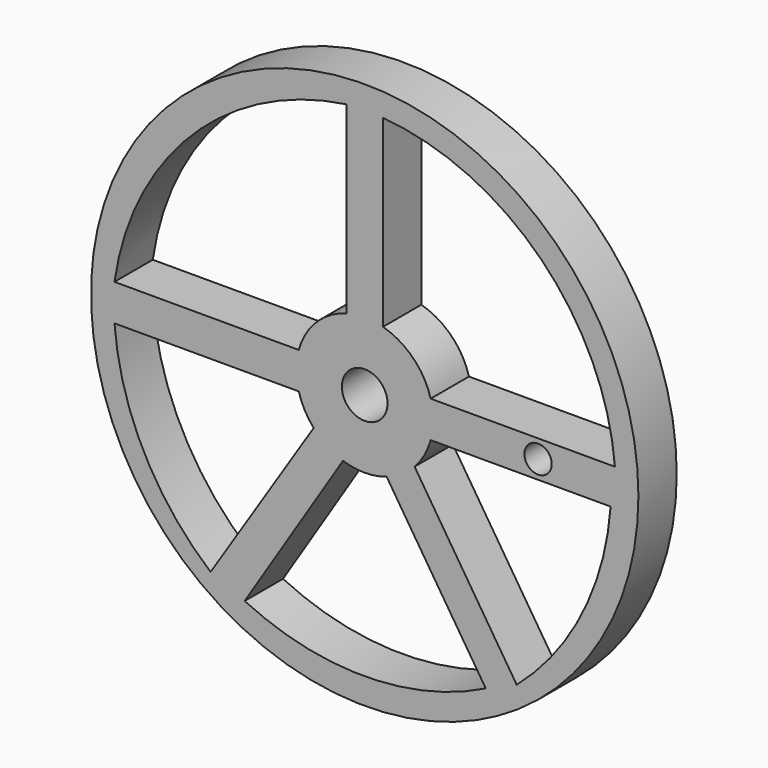
from build123d import *

# Parameters (mm, degrees)
F0_R      = 76.2
F1_DEPTH  = 13.335
F3_DEPTH  = 13.336
F4_DEPTH  = 25.4
F5_R      = 19.05
F5_R_2    = 6.35
F6_DEPTH  = 13.335
F7_R      = 6.35
F8_DEPTH  = 25.4
F9_R      = 3.81
F10_DEPTH = 25.4


with BuildPart() as f1:
    # F0 (on Front) → F1 (new body)
    with BuildSketch(Plane.XZ):
        Circle(F0_R)
    extrude(amount=F1_DEPTH)

    # F2 (on face) → F3 (cut, through all)
    with BuildSketch(Plane.XZ.offset(13.335)):
        with BuildLine():
            Line((-5.08, 5.08), (-5.08, 69.598076))
            ThreePointArc((-5.08, 69.598076), (-48.103447, 48.081106), (-69.665028, 5.08))
            Line((-69.665028, 5.08), (-5.08, 5.08))
        make_face()
        with BuildLine():
            Line((5.08, 5.08), (69.665028, 5.08))
            ThreePointArc((69.665028, 5.08), (49.192924, 49.171714), (5.08, 69.598076))
            Line((5.08, 69.598076), (5.08, 5.08))
        make_face()
        with BuildLine():
            Line((8.76398, -5.08), (42.323278, -57.252949))
            ThreePointArc((42.323278, -57.252949), (60.579086, -33.766478), (68.451492, -5.08))
            Line((68.451492, -5.08), (8.76398, -5.08))
        make_face()
        with BuildLine():
            Line((0, -8.544917), (-33.414965, -61.338916))
            ThreePointArc((-33.414965, -61.338916), (0.192188, -68.934479), (33.709339, -60.951125))
            Line((33.709339, -60.951125), (0, -8.544917))
        make_face()
        with BuildLine():
            Line((-9.307793, -5.08), (-69.665028, -5.08))
            ThreePointArc((-69.665028, -5.08), (-61.51436, -33.874713), (-42.90387, -57.310125))
            Line((-42.90387, -57.310125), (-9.307793, -5.08))
        make_face()
    extrude(amount=-F3_DEPTH, mode=Mode.SUBTRACT)

    # F2 (on face) → F4 (cut)
    with BuildSketch(Plane.XZ.offset(13.335)):
        with BuildLine():
            Line((-5.08, 5.08), (-5.08, 69.598076))
            ThreePointArc((-5.08, 69.598076), (-48.103447, 48.081106), (-69.665028, 5.08))
            Line((-69.665028, 5.08), (-5.08, 5.08))
        make_face()
        with BuildLine():
            Line((5.08, 5.08), (69.665028, 5.08))
            ThreePointArc((69.665028, 5.08), (49.192924, 49.171714), (5.08, 69.598076))
            Line((5.08, 69.598076), (5.08, 5.08))
        make_face()
        with BuildLine():
            Line((8.76398, -5.08), (42.323278, -57.252949))
            ThreePointArc((42.323278, -57.252949), (60.579086, -33.766478), (68.451492, -5.08))
            Line((68.451492, -5.08), (8.76398, -5.08))
        make_face()
        with BuildLine():
            Line((0, -8.544917), (-33.414965, -61.338916))
            ThreePointArc((-33.414965, -61.338916), (0.192188, -68.934479), (33.709339, -60.951125))
            Line((33.709339, -60.951125), (0, -8.544917))
        make_face()
        with BuildLine():
            Line((-9.307793, -5.08), (-69.665028, -5.08))
            ThreePointArc((-69.665028, -5.08), (-61.51436, -33.874713), (-42.90387, -57.310125))
            Line((-42.90387, -57.310125), (-9.307793, -5.08))
        make_face()
    extrude(amount=-F4_DEPTH, mode=Mode.SUBTRACT)

    # F5 (on Front) → F6 (join)
    with BuildSketch(Plane.XZ):
        Circle(F5_R)
        Circle(F5_R_2, mode=Mode.SUBTRACT)
    extrude(amount=F6_DEPTH)

    # F7 (on face) → F8 (cut)
    with BuildSketch(Plane.XZ.offset(13.335)):
        Circle(F7_R)
    extrude(amount=-F8_DEPTH, mode=Mode.SUBTRACT)

    # F9 (on face) → F10 (cut)
    with BuildSketch(Plane.XZ.offset(13.335)):
        with Locations((48.26, 0)):
            Circle(F9_R)
    extrude(amount=-F10_DEPTH, mode=Mode.SUBTRACT)


solid = f1.part
